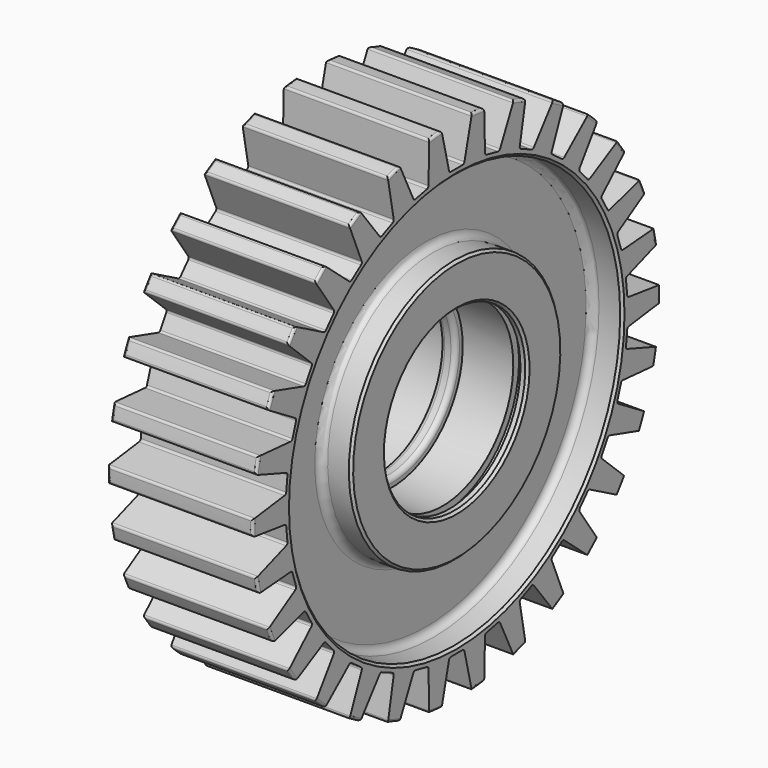
from build123d import *

# Parameters (mm, degrees)
F3_DEPTH = 35
F4_COUNT = 30
F5_SIZE  = 1
F6_R     = 1
F7_R     = 2


with BuildPart() as f1:
    # F0 (on Front) → F1 (revolve)
    with BuildSketch(Plane.XZ):
        with BuildLine():
            Line((30.4437038539, 106.5529634885), (0, 106.5529634885))
            Line((0, 106.5529634885), (-30.4437038539, 106.5529634885))
            Line((-30.4437038539, 106.5529634885), (-30.4437038539, 86.7771804333))
            Line((-30.4437038539, 86.7771804333), (-20.5779486522, 86.7771804333))
            ThreePointArc((-20.5779486522, 86.7771804333), (-18.4566283086, 85.8985007768), (-17.5779486522, 83.7771804333))
            Line((-17.5779486522, 83.7771804333), (-17.5779486522, 58.204603821))
            ThreePointArc((-17.5779486522, 58.204603821), (-18.4566283086, 56.0832834775), (-20.5779486522, 55.204603821))
            Line((-20.5779486522, 55.204603821), (-30.4437038539, 55.204603821))
            Line((-30.4437038539, 55.204603821), (-30.4437038539, 37.091809081))
            Line((-30.4437038539, 37.091809081), (-27.4437038539, 37.091809081))
            Line((-27.4437038539, 37.091809081), (-27.4437038539, 40.091809081))
            Line((-27.4437038539, 40.091809081), (-24.4437038539, 40.091809081))
            Line((-24.4437038539, 40.091809081), (-24.4437038539, 37.091809081))
            Line((-24.4437038539, 37.091809081), (-3.2820411495, 37.091809081))
            Line((-3.2820411495, 37.091809081), (-3.2820411495, 33.4143895737))
            Line((-3.2820411495, 33.4143895737), (0, 33.4143895737))
            Line((0, 33.4143895737), (3.2820411495, 33.4143895737))
            Line((3.2820411495, 33.4143895737), (3.2820411495, 37.091809081))
            Line((3.2820411495, 37.091809081), (24.4437038539, 37.091809081))
            Line((24.4437038539, 37.091809081), (24.4437038539, 40.091809081))
            Line((24.4437038539, 40.091809081), (27.4437038539, 40.091809081))
            Line((27.4437038539, 40.091809081), (27.4437038539, 37.091809081))
            Line((27.4437038539, 37.091809081), (30.4437038539, 37.091809081))
            Line((30.4437038539, 37.091809081), (30.4437038539, 55.204603821))
            Line((30.4437038539, 55.204603821), (20.5779486522, 55.204603821))
            ThreePointArc((20.5779486522, 55.204603821), (18.4566283086, 56.0832834775), (17.5779486522, 58.204603821))
            Line((17.5779486522, 58.204603821), (17.5779486522, 83.7771804333))
            ThreePointArc((17.5779486522, 83.7771804333), (18.4566283086, 85.8985007768), (20.5779486522, 86.7771804333))
            Line((20.5779486522, 86.7771804333), (30.4437038539, 86.7771804333))
            Line((30.4437038539, 86.7771804333), (30.4437038539, 106.5529634885))
        make_face()
    revolve(axis=Axis((-17.8441684693, 0, 0), (-1, 0, 0)))

    # F2 (on Right) → F3 (cut, symmetric)
    with BuildSketch(Plane.YZ):
        with BuildLine():
            ThreePointArc((3.0625545865, 89.3687307835), (3.6818403936, 89.5835651391), (4.0350384661, 90.1357606053))
            Line((4.0350384661, 90.1357606053), (8.1128160388, 107.1575656533))
            Line((8.1128160388, 107.1575656533), (-8.1128160388, 107.1575656533))
            Line((-8.1128160388, 107.1575656533), (-4.0350384661, 90.1357606053))
            ThreePointArc((-4.0350384661, 90.1357606053), (-3.6818403936, 89.5835651391), (-3.0625545865, 89.3687307835))
            Line((-3.0625545865, 89.3687307835), (0, 89.3687307835))
            Line((0, 89.3687307835), (3.0625545865, 89.3687307835))
        make_face()
    f3 = extrude(amount=F3_DEPTH, both=True, mode=Mode.SUBTRACT)

    # F4: F3 ×30 about axis
    f4_axis = Axis((-17.8441684693, 0, 0), (-1, 0, 0))
    for i in range(1, F4_COUNT):
        add(f3.rotate(f4_axis, i * 360 / F4_COUNT), mode=Mode.SUBTRACT)

    # F5
    f5_edges = [f1.edges().sort_by_distance(p)[0] for p in [
        (-30.443704, 0, -86.77718),
        (-30.443704, 0, -55.204604),
        (-30.443704, 0, -37.091809),
        (30.443704, 0, -86.77718),
        (30.443704, 0, -55.204604),
        (30.443704, 0, -37.091809),
    ]]
    chamfer(f5_edges, length=F5_SIZE)

    # F6
    f6_edges = [f1.edges().sort_by_distance(p)[0] for p in [
        (0, 56.06856, 90.608226),
        (0, 50.434746, 93.86091),
        (0, 68.847406, 81.323851),
        (-30.443704, 11.137818, 105.969255),
        (-30.443704, -11.137818, 105.969255),
        (-30.443704, -32.926677, 101.33789),
        (-30.443704, -53.276482, 92.277573),
        (-30.443704, -71.297849, 79.184283),
        (-30.443704, -86.203158, 62.630261),
        (-30.443704, -97.340976, 43.338995),
        (-30.443704, -104.224526, 22.153607),
        (-30.443704, -106.552963, 0),
        (-30.443704, -104.224526, -22.153607),
        (-30.443704, -97.340976, -43.338995),
        (-30.443704, -86.203158, -62.630261),
        (-30.443704, -71.297849, -79.184283),
        (-30.443704, -53.276482, -92.277573),
        (-30.443704, -32.926677, -101.33789),
        (-30.443704, -11.137818, -105.969255),
        (-30.443704, 11.137818, -105.969255),
        (-30.443704, 32.926677, -101.33789),
        (-30.443704, 53.276482, -92.277573),
        (-30.443704, 71.297849, -79.184283),
        (-30.443704, 86.203158, -62.630261),
        (-30.443704, 97.340976, -43.338995),
        (-30.443704, 104.224526, -22.153607),
        (-30.443704, 106.552963, 0),
        (-30.443704, 104.224526, 22.153607),
        (-30.443704, 97.340976, 43.338995),
        (-30.443704, 86.203158, 62.630261),
        (-30.443704, 71.297849, 79.184283),
        (-30.443704, 53.276482, 92.277573),
        (-30.443704, 32.926677, 101.33789),
        (30.443704, 11.137818, 105.969255),
        (30.443704, 32.926677, 101.33789),
        (30.443704, 53.276482, 92.277573),
        (30.443704, 71.297849, 79.184283),
        (30.443704, 86.203158, 62.630261),
        (30.443704, 97.340976, 43.338995),
        (30.443704, 104.224526, 22.153607),
        (30.443704, 106.552963, 0),
        (30.443704, 104.224526, -22.153607),
        (30.443704, 97.340976, -43.338995),
        (30.443704, 86.203158, -62.630261),
        (30.443704, 71.297849, -79.184283),
        (30.443704, 53.276482, -92.277573),
        (30.443704, 32.926677, -101.33789),
        (30.443704, 11.137818, -105.969255),
        (30.443704, -11.137818, -105.969255),
        (30.443704, -32.926677, -101.33789),
        (30.443704, -53.276482, -92.277573),
        (30.443704, -71.297849, -79.184283),
        (30.443704, -86.203158, -62.630261),
        (30.443704, -97.340976, -43.338995),
        (30.443704, -104.224526, -22.153607),
        (30.443704, -106.552963, 0),
        (30.443704, -104.224526, 22.153607),
        (30.443704, -97.340976, 43.338995),
        (30.443704, -86.203158, 62.630261),
        (30.443704, -71.297849, 79.184283),
        (30.443704, -53.276482, 92.277573),
        (30.443704, -32.926677, 101.33789),
        (30.443704, -11.137818, 105.969255),
        (0, 73.681836, 76.97091),
        (0, 84.251105, 65.232549),
        (0, 88.074864, 59.969596),
        (0, 95.972625, 46.290271),
        (0, 7.897762, 106.259867),
        (0, 14.367492, 105.579871),
        (0, -14.367492, 105.579871),
        (0, -7.897762, 106.259867),
        (0, -36.004817, 100.285528),
        (0, -29.817845, 102.295797),
        (0, -56.06856, 90.608226),
        (0, -50.434746, 93.86091),
        (0, -73.681836, 76.97091),
        (0, -68.847406, 81.323851),
        (0, -88.074864, 59.969596),
        (0, -84.251105, 65.232549),
        (0, -98.618597, 40.347322),
        (0, -95.972625, 46.290271),
        (0, -104.852224, 18.961677),
        (0, -103.499682, 25.324887),
        (0, -106.503305, -3.252684),
        (0, -106.503305, 3.252684),
        (0, -103.499682, -25.324887),
        (0, -104.852224, -18.961677),
        (0, -95.972625, -46.290271),
        (0, -98.618597, -40.347322),
        (0, -84.251105, -65.232549),
        (0, -88.074864, -59.969596),
        (0, -68.847406, -81.323851),
        (0, -73.681836, -76.97091),
        (0, -50.434746, -93.86091),
        (0, -56.06856, -90.608226),
        (0, -29.817845, -102.295797),
        (0, -36.004817, -100.285528),
        (0, -7.897762, -106.259867),
        (0, -14.367492, -105.579871),
        (0, 14.367492, -105.579871),
        (0, 7.897762, -106.259867),
        (0, 36.004817, -100.285528),
        (0, 29.817845, -102.295797),
        (0, 56.06856, -90.608226),
        (0, 50.434746, -93.86091),
        (0, 73.681836, -76.97091),
        (0, 68.847406, -81.323851),
        (0, 88.074864, -59.969596),
        (0, 84.251105, -65.232549),
        (0, 98.618597, -40.347322),
        (0, 95.972625, -46.290271),
        (0, 104.852224, -18.961677),
        (0, 103.499682, -25.324887),
        (0, 106.503305, 3.252684),
        (0, 106.503305, -3.252684),
        (0, 103.499682, 25.324887),
        (0, 104.852224, 18.961677),
        (0, 98.618597, 40.347322),
        (0, 29.817845, 102.295797),
        (0, 36.004817, 100.285528),
    ]]
    fillet(f6_edges, radius=F6_R)

    # F7
    f7_edges = [f1.edges().sort_by_distance(p)[0] for p in [
        (3.282041, 0, -33.41439),
        (-3.282041, 0, -33.41439),
    ]]
    fillet(f7_edges, radius=F7_R)


solid = f1.part
